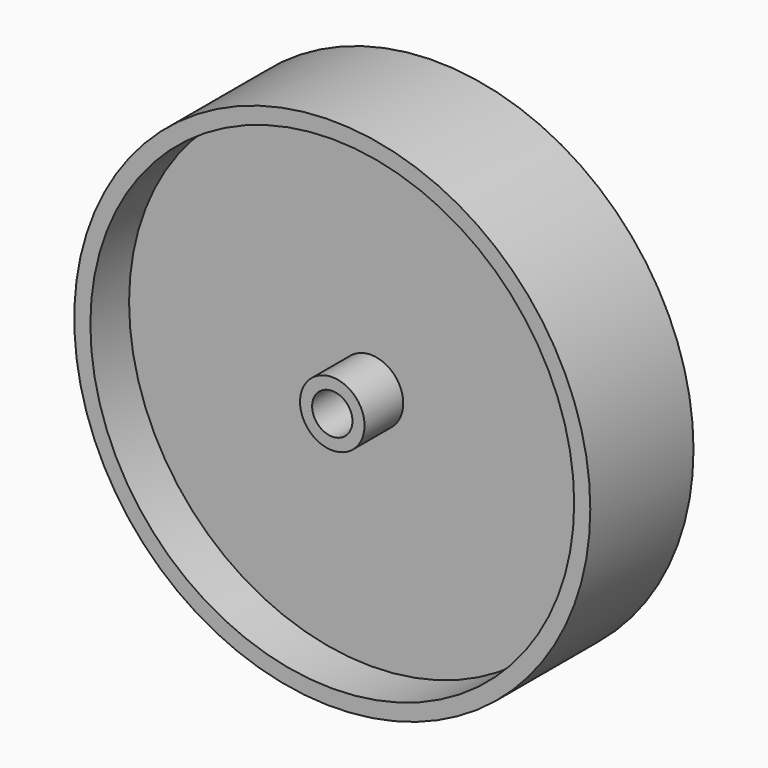
from build123d import *

# Parameters (mm, degrees)
F0_R     = 101.6
F0_R_2   = 7.9375
F1_DEPTH = 6.35
F2_R     = 101.6
F2_R_2   = 95.25
F2_R_3   = 12.7
F2_R_4   = 7.9375
F3_DEPTH = 19.05


with BuildPart() as f1:
    # F0 (on Front) → F1 (new body)
    with BuildSketch(Plane.XZ):
        Circle(F0_R)
        Circle(F0_R_2, mode=Mode.SUBTRACT)
    extrude(amount=F1_DEPTH)

    # F2 (on face) → F3 (join)
    with BuildSketch(Plane.XZ.offset(6.35)):
        Circle(F2_R)
        Circle(F2_R_2, mode=Mode.SUBTRACT)
        Circle(F2_R_3)
        Circle(F2_R_4, mode=Mode.SUBTRACT)
    extrude(amount=F3_DEPTH)

    # F4: F1 across plane


with BuildPart() as f1_1:
    add(f1.part)
    add(f1.part.mirror(Plane.XZ))


solid = f1_1.part
